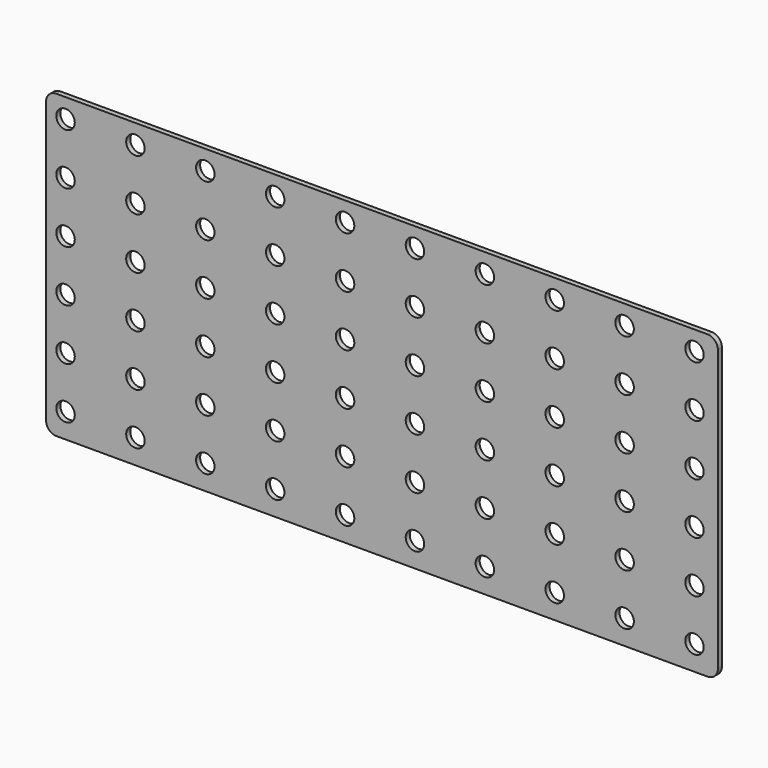
from build123d import *

# Parameters (mm, degrees)
F0_R     = 5.742539
F1_DEPTH = 3.175


with BuildPart() as f1:
    # F0 (on Front) → F1 (new body)
    with BuildSketch(Plane.XZ):
        with BuildLine():
            Line((319.272045, 88.819971), (-85.540455, 88.819971))
            ThreePointArc((-85.540455, 88.819971), (-90.030583, 86.960099), (-91.890455, 82.469971))
            Line((-91.890455, 82.469971), (-91.890455, -92.155029))
            ThreePointArc((-91.890455, -92.155029), (-90.030583, -96.645157), (-85.540455, -98.505029))
            Line((-85.540455, -98.505029), (319.272045, -98.505029))
            ThreePointArc((319.272045, -98.505029), (323.762173, -96.645157), (325.622045, -92.155029))
            Line((325.622045, -92.155029), (325.622045, 82.469971))
            ThreePointArc((325.622045, 82.469971), (323.762173, 86.960099), (319.272045, 88.819971))
        make_face()
        with Locations((-79.797916, -83.292568)):
            Circle(F0_R, mode=Mode.SUBTRACT)
        with Locations((-36.363916, -83.292568)):
            Circle(F0_R, mode=Mode.SUBTRACT)
        with Locations((7.070084, -83.292568)):
            Circle(F0_R, mode=Mode.SUBTRACT)
        with Locations((50.504084, -83.292568)):
            Circle(F0_R, mode=Mode.SUBTRACT)
        with Locations((93.938084, -83.292568)):
            Circle(F0_R, mode=Mode.SUBTRACT)
        with Locations((-79.797916, -51.288568)):
            Circle(F0_R, mode=Mode.SUBTRACT)
        with Locations((-36.363916, -51.288568)):
            Circle(F0_R, mode=Mode.SUBTRACT)
        with Locations((7.070084, -51.288568)):
            Circle(F0_R, mode=Mode.SUBTRACT)
        with Locations((-79.797916, -19.284568)):
            Circle(F0_R, mode=Mode.SUBTRACT)
        with Locations((-36.363916, -19.284568)):
            Circle(F0_R, mode=Mode.SUBTRACT)
        with Locations((7.070084, -19.284568)):
            Circle(F0_R, mode=Mode.SUBTRACT)
        with Locations((50.504084, -51.288568)):
            Circle(F0_R, mode=Mode.SUBTRACT)
        with Locations((93.938084, -51.288568)):
            Circle(F0_R, mode=Mode.SUBTRACT)
        with Locations((50.504084, -19.284568)):
            Circle(F0_R, mode=Mode.SUBTRACT)
        with Locations((93.938084, -19.284568)):
            Circle(F0_R, mode=Mode.SUBTRACT)
        with Locations((137.372084, -83.292568)):
            Circle(F0_R, mode=Mode.SUBTRACT)
        with Locations((180.806084, -83.292568)):
            Circle(F0_R, mode=Mode.SUBTRACT)
        with Locations((224.240084, -83.292568)):
            Circle(F0_R, mode=Mode.SUBTRACT)
        with Locations((267.674084, -83.292568)):
            Circle(F0_R, mode=Mode.SUBTRACT)
        with Locations((311.108084, -83.292568)):
            Circle(F0_R, mode=Mode.SUBTRACT)
        with Locations((137.372084, -51.288568)):
            Circle(F0_R, mode=Mode.SUBTRACT)
        with Locations((180.806084, -51.288568)):
            Circle(F0_R, mode=Mode.SUBTRACT)
        with Locations((137.372084, -19.284568)):
            Circle(F0_R, mode=Mode.SUBTRACT)
        with Locations((180.806084, -19.284568)):
            Circle(F0_R, mode=Mode.SUBTRACT)
        with Locations((224.240084, -51.288568)):
            Circle(F0_R, mode=Mode.SUBTRACT)
        with Locations((267.674084, -51.288568)):
            Circle(F0_R, mode=Mode.SUBTRACT)
        with Locations((311.108084, -51.288568)):
            Circle(F0_R, mode=Mode.SUBTRACT)
        with Locations((224.240084, -19.284568)):
            Circle(F0_R, mode=Mode.SUBTRACT)
        with Locations((267.674084, -19.284568)):
            Circle(F0_R, mode=Mode.SUBTRACT)
        with Locations((311.108084, -19.284568)):
            Circle(F0_R, mode=Mode.SUBTRACT)
        with Locations((-79.797916, 12.719432)):
            Circle(F0_R, mode=Mode.SUBTRACT)
        with Locations((-36.363916, 12.719432)):
            Circle(F0_R, mode=Mode.SUBTRACT)
        with Locations((7.070084, 12.719432)):
            Circle(F0_R, mode=Mode.SUBTRACT)
        with Locations((50.504084, 12.719432)):
            Circle(F0_R, mode=Mode.SUBTRACT)
        with Locations((93.938084, 12.719432)):
            Circle(F0_R, mode=Mode.SUBTRACT)
        with Locations((-79.797916, 44.723432)):
            Circle(F0_R, mode=Mode.SUBTRACT)
        with Locations((-36.363916, 44.723432)):
            Circle(F0_R, mode=Mode.SUBTRACT)
        with Locations((7.070084, 44.723432)):
            Circle(F0_R, mode=Mode.SUBTRACT)
        with Locations((-79.797916, 76.727432)):
            Circle(F0_R, mode=Mode.SUBTRACT)
        with Locations((-36.363916, 76.727432)):
            Circle(F0_R, mode=Mode.SUBTRACT)
        with Locations((7.070084, 76.727432)):
            Circle(F0_R, mode=Mode.SUBTRACT)
        with Locations((50.504084, 44.723432)):
            Circle(F0_R, mode=Mode.SUBTRACT)
        with Locations((93.938084, 44.723432)):
            Circle(F0_R, mode=Mode.SUBTRACT)
        with Locations((50.504084, 76.727432)):
            Circle(F0_R, mode=Mode.SUBTRACT)
        with Locations((93.938084, 76.727432)):
            Circle(F0_R, mode=Mode.SUBTRACT)
        with Locations((137.372084, 12.719432)):
            Circle(F0_R, mode=Mode.SUBTRACT)
        with Locations((180.806084, 12.719432)):
            Circle(F0_R, mode=Mode.SUBTRACT)
        with Locations((224.240084, 12.719432)):
            Circle(F0_R, mode=Mode.SUBTRACT)
        with Locations((267.674084, 12.719432)):
            Circle(F0_R, mode=Mode.SUBTRACT)
        with Locations((311.108084, 12.719432)):
            Circle(F0_R, mode=Mode.SUBTRACT)
        with Locations((137.372084, 44.723432)):
            Circle(F0_R, mode=Mode.SUBTRACT)
        with Locations((180.806084, 44.723432)):
            Circle(F0_R, mode=Mode.SUBTRACT)
        with Locations((137.372084, 76.727432)):
            Circle(F0_R, mode=Mode.SUBTRACT)
        with Locations((180.806084, 76.727432)):
            Circle(F0_R, mode=Mode.SUBTRACT)
        with Locations((224.240084, 44.723432)):
            Circle(F0_R, mode=Mode.SUBTRACT)
        with Locations((267.674084, 44.723432)):
            Circle(F0_R, mode=Mode.SUBTRACT)
        with Locations((311.108084, 44.723432)):
            Circle(F0_R, mode=Mode.SUBTRACT)
        with Locations((224.240084, 76.727432)):
            Circle(F0_R, mode=Mode.SUBTRACT)
        with Locations((267.674084, 76.727432)):
            Circle(F0_R, mode=Mode.SUBTRACT)
        with Locations((311.108084, 76.727432)):
            Circle(F0_R, mode=Mode.SUBTRACT)
    extrude(amount=-F1_DEPTH)


solid = f1.part
